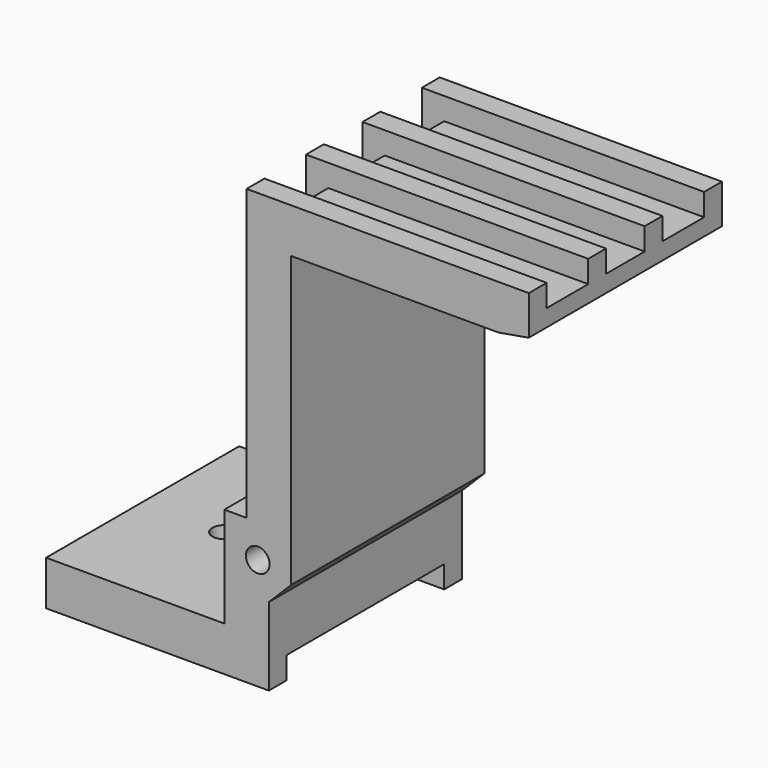
from build123d import *

# Parameters (mm, degrees)
BOX017_W               = 5
BOX017_H               = 32.5
BOX017_DEPTH           = 5
BOX017_PITCH_ANGLE     = 45
BOX016_W               = 3
BOX016_H               = 32.5
BOX016_DEPTH           = 15
CYLINDER001_R          = 1.6
CYLINDER001_DEPTH      = 35
CYLINDER001_ROLL_ANGLE = 90
CYLINDER_R             = 1.6
CYLINDER_DEPTH         = 10
BOX006_W               = 10
BOX006_H               = 32.5
BOX006_DEPTH           = 10
BOX006_PITCH_ANGLE     = -10
BOX001_W               = 35
BOX001_H               = 32.5
BOX001_DEPTH           = 3
BOX002_W               = 35
BOX002_H               = 3
BOX002_DEPTH           = 3
BOX003_W               = 35
BOX003_H               = 3
BOX003_DEPTH           = 3
BOX004_W               = 35
BOX004_H               = 3
BOX004_DEPTH           = 3
BOX005_W               = 35
BOX005_H               = 3
BOX005_DEPTH           = 3
BOX007_W               = 9
BOX007_H               = 32.5
BOX007_DEPTH           = 13.5
BOX008_W               = 3
BOX008_H               = 3
BOX008_DEPTH           = 52
BOX009_W               = 3
BOX009_H               = 3
BOX009_DEPTH           = 52
BOX010_W               = 3
BOX010_H               = 3
BOX010_DEPTH           = 52
BOX011_W               = 3
BOX011_H               = 3
BOX011_DEPTH           = 52
BOX012_W               = 3
BOX012_H               = 32.5
BOX012_DEPTH           = 6.5
BOX013_W               = 30
BOX013_H               = 32.5
BOX013_DEPTH           = 3
BOX014_W               = 30
BOX014_H               = 3
BOX014_DEPTH           = 3
BOX015_W               = 30
BOX015_H               = 3
BOX015_DEPTH           = 3
BOX_W                  = 3
BOX_H                  = 32.5
BOX_DEPTH              = 42.5


with BuildPart() as cube017:
    # Box017 → Box017 (new body)
    with BuildSketch(Plane.XY):
        with Locations((2.5, 16.25)):
            Rectangle(BOX017_W, BOX017_H)
    extrude(amount=BOX017_DEPTH)


with BuildPart() as cube017_1:
    # Box017 pitch: moved
    add(cube017.part.rotate(Axis((0, 0, 0), (0, 1, 0)), BOX017_PITCH_ANGLE))


with BuildPart() as cube017_2:
    # Box017 placement: moved
    add(cube017_1.part.moved(Location((0, 0, 0.5))))


with BuildPart() as cube016:
    # Box016 → Box016 (new body)
    with BuildSketch(Plane.XY.offset(-14.5)):
        with Locations((1.5, 16.25)):
            Rectangle(BOX016_W, BOX016_H)
    extrude(amount=BOX016_DEPTH)


with BuildPart() as cylinder001:
    # Cylinder001 → Cylinder001 (new body)
    with BuildSketch(Plane.XY):
        Circle(CYLINDER001_R)
    extrude(amount=CYLINDER001_DEPTH)


with BuildPart() as cylinder001_1:
    # Cylinder001 roll: moved
    add(cylinder001.part.rotate(Axis((0, 0, 0), (1, 0, 0)), CYLINDER001_ROLL_ANGLE))


with BuildPart() as cylinder001_2:
    # Cylinder001 placement: moved
    add(cylinder001_1.part.moved(Location((-1.5, 33, 5))))


with BuildPart() as cylinder:
    # Cylinder → Cylinder (new body)
    with BuildSketch(Plane(origin=(-19, 16.25, -8), x_dir=(1, 0, 0), z_dir=(0, 0, 1))):
        Circle(CYLINDER_R)
    extrude(amount=CYLINDER_DEPTH)


with BuildPart() as cube006:
    # Box006 → Box006 (new body)
    with BuildSketch(Plane.XY):
        with Locations((5, 16.25)):
            Rectangle(BOX006_W, BOX006_H)
    extrude(amount=BOX006_DEPTH)


with BuildPart() as cube006_1:
    # Box006 pitch: moved
    add(cube006.part.rotate(Axis((0, 0, 0), (0, 1, 0)), BOX006_PITCH_ANGLE))


with BuildPart() as cube006_2:
    # Box006 placement: moved
    add(cube006_1.part.moved(Location((29, 0, 32))))


with BuildPart() as cube001:
    # Box001 → Box001 (new body)
    with BuildSketch(Plane.XY.offset(42.5)):
        with Locations((17.5, 16.25)):
            Rectangle(BOX001_W, BOX001_H)
    extrude(amount=BOX001_DEPTH)


with BuildPart() as cube002:
    # Box002 → Box002 (new body)
    with BuildSketch(Plane.XY.offset(45.5)):
        with Locations((17.5, 1.5)):
            Rectangle(BOX002_W, BOX002_H)
    extrude(amount=BOX002_DEPTH)


with BuildPart() as cube003:
    # Box003 → Box003 (new body)
    with BuildSketch(Plane(origin=(0, 29.5, 45.5), x_dir=(1, 0, 0), z_dir=(0, 0, 1))):
        with Locations((17.5, 1.5)):
            Rectangle(BOX003_W, BOX003_H)
    extrude(amount=BOX003_DEPTH)


with BuildPart() as cube004:
    # Box004 → Box004 (new body)
    with BuildSketch(Plane(origin=(0, 10, 45.5), x_dir=(1, 0, 0), z_dir=(0, 0, 1))):
        with Locations((17.5, 1.5)):
            Rectangle(BOX004_W, BOX004_H)
    extrude(amount=BOX004_DEPTH)


with BuildPart() as cube005:
    # Box005 → Box005 (new body)
    with BuildSketch(Plane(origin=(0, 19.5, 45.5), x_dir=(1, 0, 0), z_dir=(0, 0, 1))):
        with Locations((17.5, 1.5)):
            Rectangle(BOX005_W, BOX005_H)
    extrude(amount=BOX005_DEPTH)


with BuildPart() as cube007:
    # Box007 → Box007 (new body)
    with BuildSketch(Plane(origin=(-6, 0, -4), x_dir=(1, 0, 0), z_dir=(0, 0, 1))):
        with Locations((4.5, 16.25)):
            Rectangle(BOX007_W, BOX007_H)
    extrude(amount=BOX007_DEPTH)


with BuildPart() as cube008:
    # Box008 → Box008 (new body)
    with BuildSketch(Plane(origin=(-3, 0, -3.5), x_dir=(1, 0, 0), z_dir=(0, 0, 1))):
        with Locations((1.5, 1.5)):
            Rectangle(BOX008_W, BOX008_H)
    extrude(amount=BOX008_DEPTH)


with BuildPart() as cube009:
    # Box009 → Box009 (new body)
    with BuildSketch(Plane(origin=(-3, 29.5, -3.5), x_dir=(1, 0, 0), z_dir=(0, 0, 1))):
        with Locations((1.5, 1.5)):
            Rectangle(BOX009_W, BOX009_H)
    extrude(amount=BOX009_DEPTH)


with BuildPart() as cube010:
    # Box010 → Box010 (new body)
    with BuildSketch(Plane(origin=(-3, 19.5, -3.5), x_dir=(1, 0, 0), z_dir=(0, 0, 1))):
        with Locations((1.5, 1.5)):
            Rectangle(BOX010_W, BOX010_H)
    extrude(amount=BOX010_DEPTH)


with BuildPart() as cube011:
    # Box011 → Box011 (new body)
    with BuildSketch(Plane(origin=(-3, 10, -3.5), x_dir=(1, 0, 0), z_dir=(0, 0, 1))):
        with Locations((1.5, 1.5)):
            Rectangle(BOX011_W, BOX011_H)
    extrude(amount=BOX011_DEPTH)


with BuildPart() as cube012:
    # Box012 → Box012 (new body)
    with BuildSketch(Plane.XY.offset(-6.5)):
        with Locations((1.5, 16.25)):
            Rectangle(BOX012_W, BOX012_H)
    extrude(amount=BOX012_DEPTH)


with BuildPart() as cube013:
    # Box013 → Box013 (new body)
    with BuildSketch(Plane(origin=(-30, 0, -7), x_dir=(1, 0, 0), z_dir=(0, 0, 1))):
        with Locations((15, 16.25)):
            Rectangle(BOX013_W, BOX013_H)
    extrude(amount=BOX013_DEPTH)


with BuildPart() as cube014:
    # Box014 → Box014 (new body)
    with BuildSketch(Plane(origin=(-30, 0, -10), x_dir=(1, 0, 0), z_dir=(0, 0, 1))):
        with Locations((15, 1.5)):
            Rectangle(BOX014_W, BOX014_H)
    extrude(amount=BOX014_DEPTH)


with BuildPart() as cube015:
    # Box015 → Box015 (new body)
    with BuildSketch(Plane(origin=(-30, 29.5, -10), x_dir=(1, 0, 0), z_dir=(0, 0, 1))):
        with Locations((15, 1.5)):
            Rectangle(BOX015_W, BOX015_H)
    extrude(amount=BOX015_DEPTH)


with BuildPart() as cut004:
    # Box → Box (new body)
    with BuildSketch(Plane.XY):
        with Locations((1.5, 16.25)):
            Rectangle(BOX_W, BOX_H)
    extrude(amount=BOX_DEPTH)

    # Fusion: union Cube001, Cube002, Cube003, Cube004, Cube005, Cube007, Cube008, Cube009, Cube010, Cube011, Cube012, Cube013, Cube014, Cube015
    add(cube001.part)
    add(cube002.part)
    add(cube003.part)
    add(cube004.part)
    add(cube005.part)
    add(cube007.part)
    add(cube008.part)
    add(cube009.part)
    add(cube010.part)
    add(cube011.part)
    add(cube012.part)
    add(cube013.part)
    add(cube014.part)
    add(cube015.part)

    # Cut: cut Cube006
    add(cube006_2.part, mode=Mode.SUBTRACT)

    # Cut001: cut Cylinder
    add(cylinder.part, mode=Mode.SUBTRACT)

    # Cut002: cut Cylinder001
    add(cylinder001_2.part, mode=Mode.SUBTRACT)

    # Cut003: cut Cube016
    add(cube016.part, mode=Mode.SUBTRACT)

    # Cut004: cut Cube017
    add(cube017_2.part, mode=Mode.SUBTRACT)


solid = cut004.part
